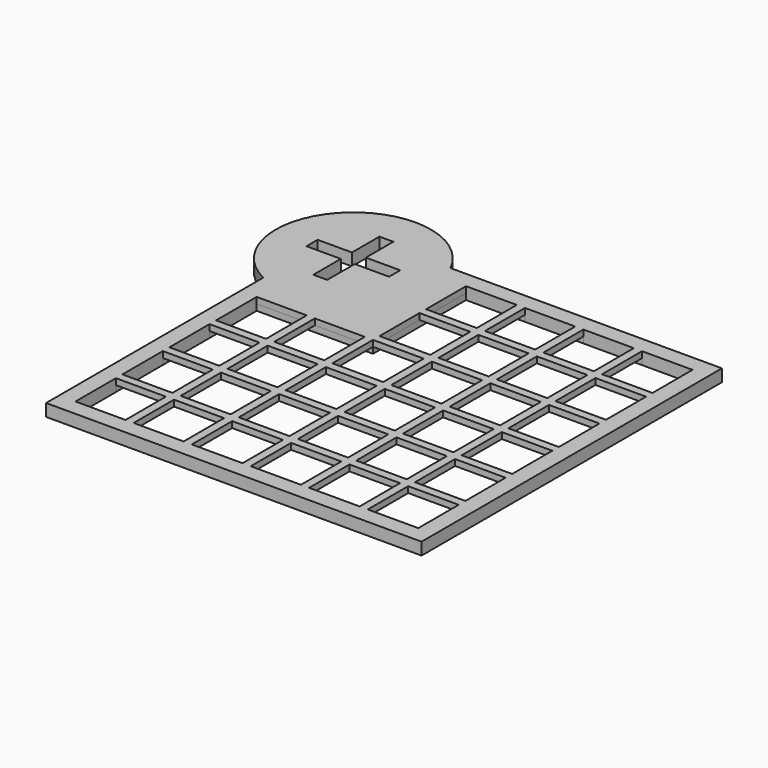
from build123d import *

# Parameters (mm, degrees)
PAD039_DEPTH    = 3
SKETCH067_W     = 12.2279220614
SKETCH067_H     = 12.4149860738
SKETCH067_H_2   = 12.2902767322
SKETCH067_H_3   = 12.352631403
SKETCH067_W_2   = 12.4149860738
SKETCH067_W_3   = 12.2902767322
SKETCH067_W_4   = 12.352631403
SKETCH067_H_4   = 12.2279220614
POCKET027_DEPTH = 3.001
POCKET028_DEPTH = 1.5


with BuildPart() as part:
    # Sketch066 (on Face3 of Binder013) → Pad039 (new body)
    with BuildSketch(Plane.XY.offset(18.2)):
        with BuildLine():
            ThreePointArc((-66.6105256119, 92.0663697346), (-97.0746391493, 97.0746391493), (-92.0663697346, 66.6105256119))
            Line((-92.0663697346, 66.6105256119), (-92.0663697346, 0.2))
            Line((-92.0663697346, 0.2), (-0.2, 0.2))
            Line((-0.2, 92.0663697346), (-0.2, 0.2))
            Line((-66.6105256119, 92.0663697346), (-0.2, 92.0663697346))
        make_face()
    extrude(amount=PAD039_DEPTH)

    # Sketch067 (on Face7 of Pad039) → Pocket027 (cut, through all)
    with BuildSketch(Plane.XY.offset(21.2)):
        Polygon((-93.7396103068, 85.3396103068), (-85.3396103068, 85.3396103068), (-85.3396103068, 93.7396103068), (-81.9396103068, 93.7396103068), (-81.9396103068, 85.3396103068), (-73.5396103068, 85.3396103068), (-73.5396103068, 81.9396103068), (-81.9396103068, 81.9396103068), (-81.9396103068, 73.5396103068), (-85.3396103068, 73.5396103068), (-85.3396103068, 81.9396103068), (-93.7396103068, 81.9396103068), align=None)
        with Locations((-81.9524087039, 53.403032575)):
            Rectangle(SKETCH067_W, SKETCH067_H)
        with Locations((-67.7244866426, 53.403032575)):
            Rectangle(SKETCH067_W, SKETCH067_H)
        with Locations((-81.9524087039, 39.050401172)):
            Rectangle(SKETCH067_W, SKETCH067_H_2)
        with Locations((-67.7244866426, 39.050401172)):
            Rectangle(SKETCH067_W, SKETCH067_H_2)
        with Locations((-81.9524087039, 24.7289471045)):
            Rectangle(SKETCH067_W, SKETCH067_H_3)
        with Locations((-67.7244866426, 24.7289471045)):
            Rectangle(SKETCH067_W, SKETCH067_H_3)
        with Locations((-81.9524087039, 10.3763157015)):
            Rectangle(SKETCH067_W, SKETCH067_H_3)
        with Locations((-67.7244866426, 10.3763157015)):
            Rectangle(SKETCH067_W, SKETCH067_H_3)
        with Locations((-53.403032575, 10.3763157015)):
            Rectangle(SKETCH067_W_2, SKETCH067_H_3)
        with Locations((-39.050401172, 10.3763157015)):
            Rectangle(SKETCH067_W_3, SKETCH067_H_3)
        with Locations((-24.7289471045, 10.3763157015)):
            Rectangle(SKETCH067_W_4, SKETCH067_H_3)
        with Locations((-10.3763157015, 10.3763157015)):
            Rectangle(SKETCH067_W_4, SKETCH067_H_3)
        with Locations((-10.3763157015, 24.7601244399)):
            Rectangle(SKETCH067_W_4, SKETCH067_H_2)
        with Locations((-24.7289471045, 24.7601244399)):
            Rectangle(SKETCH067_W_4, SKETCH067_H_2)
        with Locations((-39.050401172, 24.7601244399)):
            Rectangle(SKETCH067_W_3, SKETCH067_H_2)
        with Locations((-53.403032575, 24.7289471045)):
            Rectangle(SKETCH067_W_2, SKETCH067_H_3)
        with Locations((-53.403032575, 39.050401172)):
            Rectangle(SKETCH067_W_2, SKETCH067_H_2)
        with Locations((-39.050401172, 39.050401172)):
            Rectangle(SKETCH067_W_3, SKETCH067_H_2)
        with Locations((-24.7289471045, 39.050401172)):
            Rectangle(SKETCH067_W_4, SKETCH067_H_2)
        with Locations((-10.3763157015, 39.050401172)):
            Rectangle(SKETCH067_W_4, SKETCH067_H_2)
        with Locations((-10.3763157015, 53.403032575)):
            Rectangle(SKETCH067_W_4, SKETCH067_H)
        with Locations((-24.7289471045, 53.403032575)):
            Rectangle(SKETCH067_W_4, SKETCH067_H)
        with Locations((-39.050401172, 53.403032575)):
            Rectangle(SKETCH067_W_3, SKETCH067_H)
        with Locations((-53.403032575, 53.403032575)):
            Rectangle(SKETCH067_W_2, SKETCH067_H)
        with Locations((-53.403032575, 67.7244866426)):
            Rectangle(SKETCH067_W_2, SKETCH067_H_4)
        with Locations((-39.050401172, 67.7244866426)):
            Rectangle(SKETCH067_W_3, SKETCH067_H_4)
        with Locations((-24.7289471045, 67.7244866426)):
            Rectangle(SKETCH067_W_4, SKETCH067_H_4)
        with Locations((-10.3763157015, 67.7244866426)):
            Rectangle(SKETCH067_W_4, SKETCH067_H_4)
        with Locations((-10.3763157015, 81.9524087039)):
            Rectangle(SKETCH067_W_4, SKETCH067_H_4)
        with Locations((-24.7289471045, 81.9524087039)):
            Rectangle(SKETCH067_W_4, SKETCH067_H_4)
        with Locations((-39.050401172, 81.9524087039)):
            Rectangle(SKETCH067_W_3, SKETCH067_H_4)
        with Locations((-53.403032575, 81.9524087039)):
            Rectangle(SKETCH067_W_2, SKETCH067_H_4)
    extrude(amount=-POCKET027_DEPTH, mode=Mode.SUBTRACT)

    # Sketch068 (on Face4 of Pocket027) → Pocket028 (cut)
    with BuildSketch(Plane(origin=(0, 0, 18.2), x_dir=(1, 0, 0), z_dir=(0, 0, -1))):
        Polygon((-88.06637, -4.2), (-4.2, -4.2), (-4.2, -88.06637), (-59.610526, -88.06637), (-59.610526, -59.610526), (-88.06637, -59.610526), align=None)
    extrude(amount=-POCKET028_DEPTH, mode=Mode.SUBTRACT)


solid = part.part
